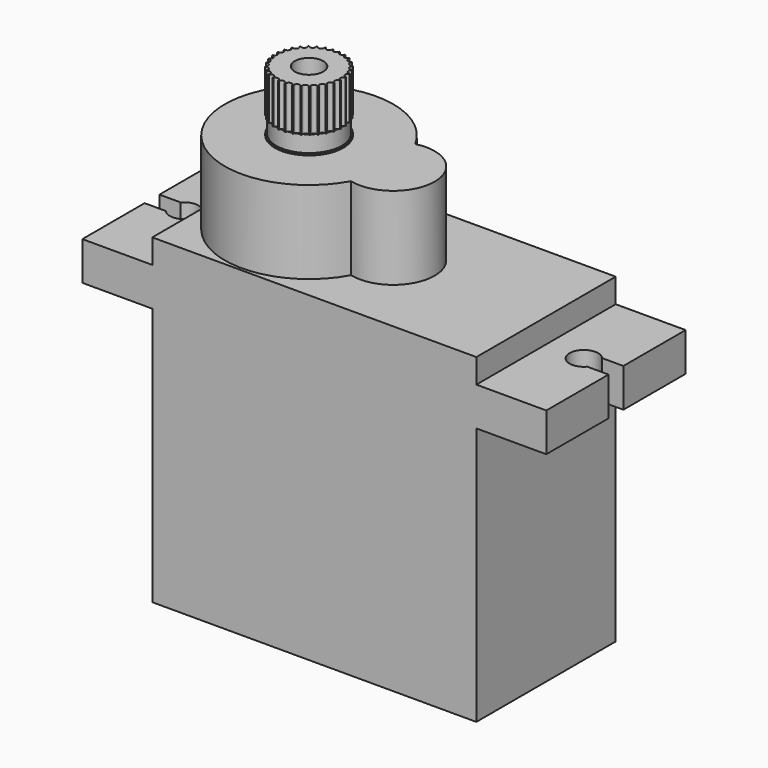
from build123d import *

# Parameters (mm, degrees)
F1_DEPTH  = 12.2
F3_DEPTH  = 5.8
F4_R      = 2.4
F5_DEPTH  = 4.25
F7_DEPTH  = 20.801
F10_W     = 0.1
F10_H     = 1.15
F8_R      = 0.2
F12_DEPTH = 3
F13_R     = 1
F14_DEPTH = 5


with BuildPart() as f1:
    # F0 (on Front) → F1 (new body)
    with BuildSketch(Plane.XZ):
        Polygon((-11.35, 0), (11.35, 0), (11.35, 18.1), (16.25, 18.1), (16.25, 20.8), (11.35, 20.8), (11.35, 22.5), (-11.35, 22.5), (-11.35, 20.8), (-16.25, 20.8), (-16.25, 18.1), (-11.35, 18.1), align=None)
    extrude(amount=F1_DEPTH)

    # F2 (on face) → F3 (join)
    with BuildSketch(Plane.XY.offset(22.5)):
        with BuildLine():
            ThreePointArc((-0.0627118644, -8.9110570607), (3.55, -6.1), (-0.0627118644, -3.2889429393))
            ThreePointArc((-0.0627118644, -3.2889429393), (-11.15, -6.1), (-0.0627118644, -8.9110570607))
        make_face()
    extrude(amount=F3_DEPTH)

    # F4 (on face) → F5 (join)
    with BuildSketch(Plane.XY.offset(28.3)):
        with Locations((-5.25, -6.1)):
            Circle(F4_R)
    extrude(amount=F5_DEPTH)

    # F6 (on face) → F7 (cut, through all)
    with BuildSketch(Plane.XY.offset(20.8)):
        with BuildLine():
            Line((16.25, -5.45), (14.7599342077, -5.45))
            ThreePointArc((14.7599342077, -5.45), (13, -6.1), (14.7599342077, -6.75))
            Line((14.7599342077, -6.75), (16.25, -6.75))
            Line((16.25, -6.75), (16.25, -5.45))
        make_face()
        with BuildLine():
            Line((-16.25, -6.75), (-14.7599342077, -6.75))
            ThreePointArc((-14.7599342077, -6.75), (-13, -6.1), (-14.7599342077, -5.45))
            Line((-14.7599342077, -5.45), (-16.25, -5.45))
            Line((-16.25, -5.45), (-16.25, -6.75))
        make_face()
    extrude(amount=-F7_DEPTH, mode=Mode.SUBTRACT)

    # F10 (on mid) → F11 (revolve, cut)
    with BuildSketch(Plane.XZ.offset(6.1)):
        with Locations((-7.6, 28.975)):
            Rectangle(F10_W, F10_H)
    revolve(axis=Axis((-5.25, -6.1, 28.3), (0, 0, -1)), mode=Mode.SUBTRACT)

    # F8 (on face) → F12 (cut)
    with BuildSketch(Plane.XY.offset(32.55)):
        with Locations((-5.25, -8.5)):
            Circle(F8_R)
        with Locations((-4.7817832272, -8.453884673)):
            Circle(F8_R)
        with Locations((-4.3315597623, -8.317310878)):
            Circle(F8_R)
        with Locations((-3.9166314408, -8.0955270695)):
            Circle(F8_R)
        with Locations((-3.5529437252, -7.7970562748)):
            Circle(F8_R)
        with Locations((-3.2544729305, -7.4333685592)):
            Circle(F8_R)
        with Locations((-3.032689122, -7.0184402377)):
            Circle(F8_R)
        with Locations((-2.896115327, -6.5682167728)):
            Circle(F8_R)
        with Locations((-2.85, -6.1)):
            Circle(F8_R)
        with Locations((-2.896115327, -5.6317832272)):
            Circle(F8_R)
        with Locations((-3.032689122, -5.1815597623)):
            Circle(F8_R)
        with Locations((-3.2544729305, -4.7666314408)):
            Circle(F8_R)
        with Locations((-3.5529437252, -4.4029437252)):
            Circle(F8_R)
        with Locations((-3.9166314408, -4.1044729305)):
            Circle(F8_R)
        with Locations((-4.3315597623, -3.882689122)):
            Circle(F8_R)
        with Locations((-4.7817832272, -3.746115327)):
            Circle(F8_R)
        with Locations((-5.25, -3.7)):
            Circle(F8_R)
        with Locations((-5.7182167728, -3.746115327)):
            Circle(F8_R)
        with Locations((-6.1684402377, -3.882689122)):
            Circle(F8_R)
        with Locations((-6.5833685592, -4.1044729305)):
            Circle(F8_R)
        with Locations((-6.9470562748, -4.4029437252)):
            Circle(F8_R)
        with Locations((-7.2455270695, -4.7666314408)):
            Circle(F8_R)
        with Locations((-7.467310878, -5.1815597623)):
            Circle(F8_R)
        with Locations((-7.603884673, -5.6317832272)):
            Circle(F8_R)
        with Locations((-7.65, -6.1)):
            Circle(F8_R)
        with Locations((-7.603884673, -6.5682167728)):
            Circle(F8_R)
        with Locations((-7.467310878, -7.0184402377)):
            Circle(F8_R)
        with Locations((-7.2455270695, -7.4333685592)):
            Circle(F8_R)
        with Locations((-6.9470562748, -7.7970562748)):
            Circle(F8_R)
        with Locations((-6.5833685592, -8.0955270695)):
            Circle(F8_R)
        with Locations((-6.1684402377, -8.317310878)):
            Circle(F8_R)
        with Locations((-5.7182167728, -8.453884673)):
            Circle(F8_R)
    extrude(amount=-F12_DEPTH, mode=Mode.SUBTRACT)

    # F13 (on face) → F14 (cut)
    with BuildSketch(Plane.XY.offset(32.55)):
        with Locations((-5.25, -6.1)):
            Circle(F13_R)
    extrude(amount=-F14_DEPTH, mode=Mode.SUBTRACT)


solid = f1.part
